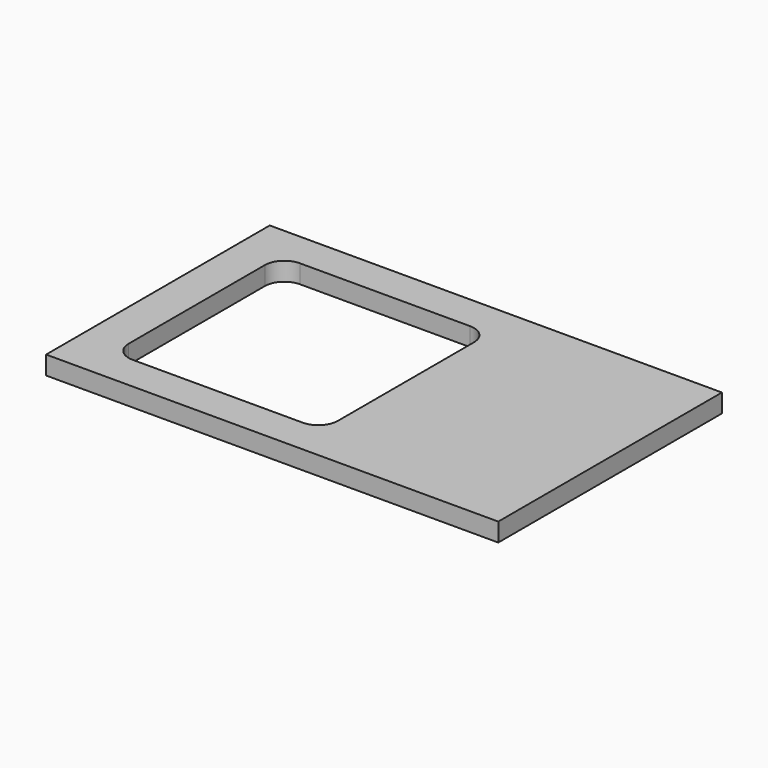
from build123d import *

# Parameters (mm, degrees)
F0_W     = 930
F0_H     = 575
F1_DEPTH = 38
F3_DEPTH = 38.001


with BuildPart() as f1:
    # F0 (on Top) → F1 (new body)
    with BuildSketch(Plane.XY):
        Rectangle(F0_W, F0_H)
    extrude(amount=-F1_DEPTH)

    # F2 (on face) → F3 (cut, through all)
    with BuildSketch(Plane.XY):
        with BuildLine():
            Line((5, 215), (-345, 215))
            ThreePointArc((-345, 215), (-373.284271, 203.284271), (-385, 175))
            Line((-385, 175), (-385, -175))
            ThreePointArc((-385, -175), (-373.284271, -203.284271), (-345, -215))
            Line((-345, -215), (5, -215))
            ThreePointArc((5, -215), (33.284271, -203.284271), (45, -175))
            Line((45, -175), (45, 175))
            ThreePointArc((45, 175), (33.284271, 203.284271), (5, 215))
        make_face()
    extrude(amount=-F3_DEPTH, mode=Mode.SUBTRACT)


solid = f1.part
